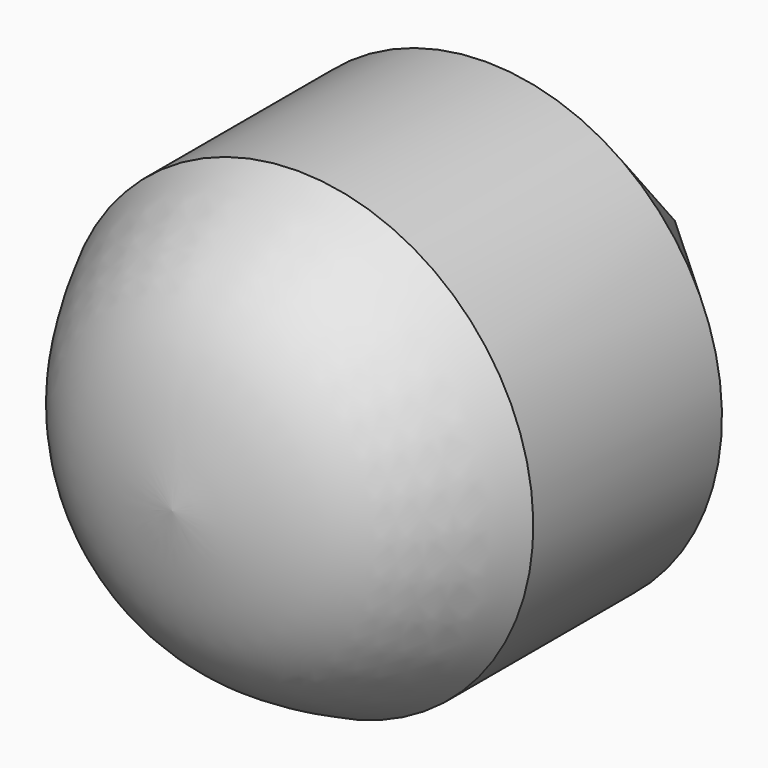
from build123d import *

# Parameters (mm, degrees)
F0_W = 1.5875
F0_H = 1.5875


with BuildPart() as f1:
    # F0 (on Right) → F1 (revolve)
    with BuildSketch(Plane.YZ):
        with BuildLine():
            Line((-0.79375, 0), (-0.79375, 1.5875))
            add(Edge.make_bspline(
                [(-0.79375, 1.5875), (-1.531371, 1.228492), (-1.756436, 0.938448), (-1.846408, 0)],
                knots=[0, 0, 0, 0, 1.904795, 1.904795, 1.904795, 1.904795], degree=3))
            Line((-1.846408, 0), (-0.79375, 0))
        make_face()
        with Locations((0, 0.79375)):
            Rectangle(F0_W, F0_H)
        Polygon((2.38125, 0), (0.79375, 1.5875), (0.79375, 0), align=None)
    revolve(axis=Axis((0, 0, 0), (0, 1, 0)))


solid = f1.part
